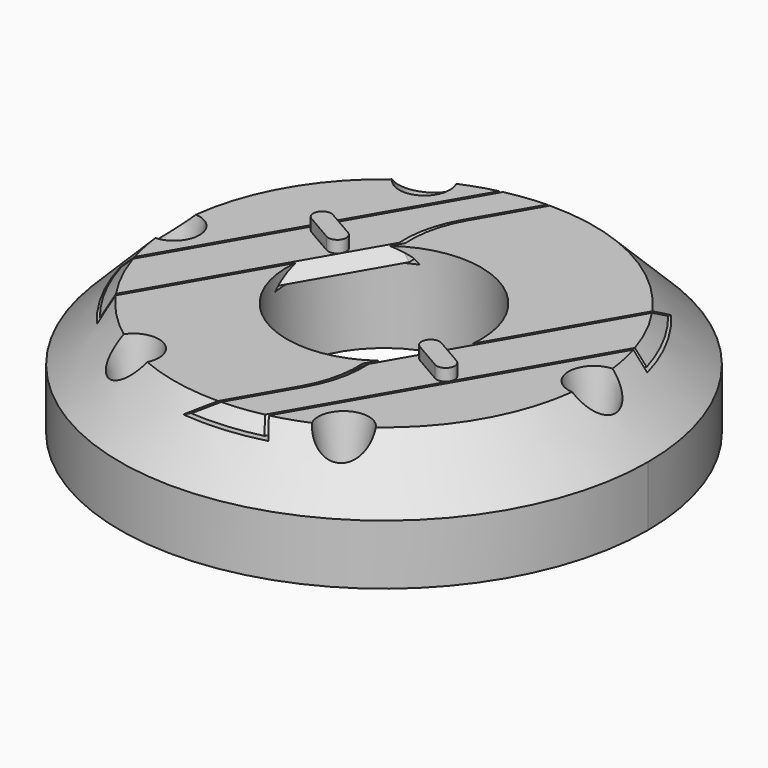
from build123d import *

# Parameters (mm, degrees)
SKETCH001_R        = 1
POCKET_DEPTH       = 10
POCKET_TAPER       = -10
SKETCH004_W        = 1.5
SKETCH004_H        = 5.5
POCKET003_DEPTH    = 2.75
SKETCH003_W        = 2
SKETCH003_H        = 5
POCKET004_DEPTH    = 5
POCKET005_DEPTH    = 1.2
POCKET005_TAPER    = -45
POLARPATTERN_COUNT = 2
PAD_DEPTH          = 6.5
PAD001_DEPTH       = 1
PAD001_TAPER       = -45
PAD003_DEPTH       = 1
PAD002_DEPTH       = 1
PAD002_TAPER       = -45
PAD004_DEPTH       = 1


with BuildPart() as body:
    # Sketch → Revolution (revolve)
    with BuildSketch(Plane.XZ):
        with BuildLine():
            Line((22, 5.5), (20, 5.5))
            Line((20, 5.5), (20.25, 5.75))
            Line((20.25, 5.75), (20.25, 8.7))
            Line((10.8, 8.7), (20.25, 8.7))
            Line((11, 8.5), (10.8, 8.7))
            Line((9, 8.5), (11, 8.5))
            ThreePointArc((9, 8.5), (8.646447, 8.353553), (8.5, 8))
            Line((8.5, 7.5), (8.5, 8))
            Line((8.1, 7.5), (8.5, 7.5))
            Line((8.1, 15), (8.1, 7.5))
            Line((8.1, 15), (17.5, 15))
            Line((17.5, 15), (22, 10.5))
            Line((22, 5.5), (22, 10.5))
        make_face()
    revolve(axis=Axis((0, 0, 0), (0, 0, 1)))

    # Sketch001 → Pocket (cut)
    with BuildSketch(Plane.XY.offset(8.7)):
        with Locations((-8.75, -15.155445)):
            Circle(SKETCH001_R)
        with Locations((-17.5, 0)):
            Circle(SKETCH001_R)
        with Locations((-8.75, 15.155445)):
            Circle(SKETCH001_R)
        with Locations((17.5, 0)):
            Circle(SKETCH001_R)
        with Locations((8.75, -15.155445)):
            Circle(SKETCH001_R)
    extrude(amount=POCKET_DEPTH, taper=POCKET_TAPER, mode=Mode.SUBTRACT)

    # Sketch004 → Pocket003 (cut, symmetric)
    with BuildSketch(Plane.YZ):
        with Locations((20.45, 8.25)):
            Rectangle(SKETCH004_W, SKETCH004_H)
        Polygon((-21, 7), (-21, 5.5), (-19, 5.5), (-17, 5.5), (-17, 7), align=None)
    extrude(amount=POCKET003_DEPTH, both=True, mode=Mode.SUBTRACT)

    # Sketch003 → Pocket004 (cut)
    with BuildSketch(Plane.XY.offset(5.5)):
        with Locations((0, 22.5)):
            Rectangle(SKETCH003_W, SKETCH003_H)
    extrude(amount=POCKET004_DEPTH, mode=Mode.SUBTRACT)

    # Sketch006 → Pocket005 (cut)
    with BuildSketch(Plane.XY.offset(15)):
        with BuildLine():
            Line((-3.044389, 12.526964), (1.24768, 19.961044))
            ThreePointArc((1.24768, 19.961044), (-0.574699, 19.991741), (-2.392305, 19.856406))
            Line((-2.392305, 19.856406), (-18.392305, -7.856406))
            ThreePointArc((-18.392305, -7.856406), (-17.195755, -10.213032), (-15.698906, -12.391302))
            Line((-4.217698, 7.494733), (-15.698906, -12.391302))
            ThreePointArc((-3.044389, 12.526964), (-4.004284, 10.097873), (-4.217698, 7.494733))
        make_face()
    pocket005 = extrude(amount=-POCKET005_DEPTH, taper=POCKET005_TAPER, mode=Mode.SUBTRACT)

    # PolarPattern: Pocket005 ×2 about axis
    polarpattern_axis = Axis((0, 0, 15), (0, 0, 1))
    for i in range(1, POLARPATTERN_COUNT):
        add(pocket005.rotate(polarpattern_axis, i * 360 / POLARPATTERN_COUNT), mode=Mode.SUBTRACT)

    # Sketch008 → Pad (join, symmetric)
    with BuildSketch(Plane.YZ):
        with BuildLine():
            ThreePointArc((19.6, 6.5), (20, 6.1), (20.4, 6.5))
            Line((20.4, 6.5), (20.4, 11))
            Line((19.2, 11), (20.4, 11))
            Line((19.2, 8.7), (19.2, 11))
            ThreePointArc((19.6, 8.3), (19.482843, 8.582843), (19.2, 8.7))
            Line((19.6, 6.5), (19.6, 8.3))
        make_face()
    extrude(amount=PAD_DEPTH, both=True)


with BuildPart() as body001:
    # Sketch009 → Pad001 (new body)
    with BuildSketch(Plane.XY.offset(15)):
        with BuildLine():
            Line((-16.680717, -5.29185), (-3.757482, 17.09185))
            ThreePointArc((-0.406876, 17.495269), (-2.091927, 17.374517), (-3.757482, 17.09185))
            Line((-0.406876, 17.495269), (-3.365871, 12.37014))
            ThreePointArc((-3.365871, 12.37014), (-4.340364, 9.916143), (-4.569332, 7.285685))
            Line((-14.463576, -9.851648), (-4.569332, 7.285685))
            ThreePointArc((-16.680717, -5.29185), (-15.73816, -7.652471), (-14.463576, -9.851648))
        make_face()
    extrude(amount=-PAD001_DEPTH, taper=PAD001_TAPER)

    # Sketch011 → Pad003 (join)
    with BuildSketch(Plane.XY.offset(15)):
        with BuildLine():
            ThreePointArc((-9.194581, 6.174519), (-10.2191, 5.9), (-9.944581, 4.875481))
            Line((-9.944581, 4.875481), (-7.606312, 3.525481))
            ThreePointArc((-7.606312, 3.525481), (-6.581793, 3.8), (-6.856312, 4.824519))
            Line((-9.194581, 6.174519), (-6.856312, 4.824519))
        make_face()
    extrude(amount=PAD003_DEPTH)


with BuildPart() as body002:
    # Sketch010 → Pad002 (new body)
    with BuildSketch(Plane.XY.offset(15)):
        with BuildLine():
            Line((16.680717, 5.29185), (3.757482, -17.09185))
            ThreePointArc((0.406876, -17.495269), (2.091927, -17.374517), (3.757482, -17.09185))
            Line((0.406876, -17.495269), (3.365871, -12.37014))
            ThreePointArc((3.365871, -12.37014), (4.340364, -9.916143), (4.569332, -7.285685))
            Line((14.463576, 9.851648), (4.569332, -7.285685))
            ThreePointArc((16.680717, 5.29185), (15.73816, 7.652471), (14.463576, 9.851648))
        make_face()
    extrude(amount=-PAD002_DEPTH, taper=PAD002_TAPER)

    # Sketch012 → Pad004 (join)
    with BuildSketch(Plane.XY.offset(15)):
        with BuildLine():
            ThreePointArc((9.194581, -6.174519), (10.2191, -5.9), (9.944581, -4.875481))
            Line((9.944581, -4.875481), (7.606312, -3.525481))
            ThreePointArc((7.606312, -3.525481), (6.581793, -3.8), (6.856312, -4.824519))
            Line((9.194581, -6.174519), (6.856312, -4.824519))
        make_face()
    extrude(amount=PAD004_DEPTH)


solid = Compound([body.part, body001.part, body002.part])
